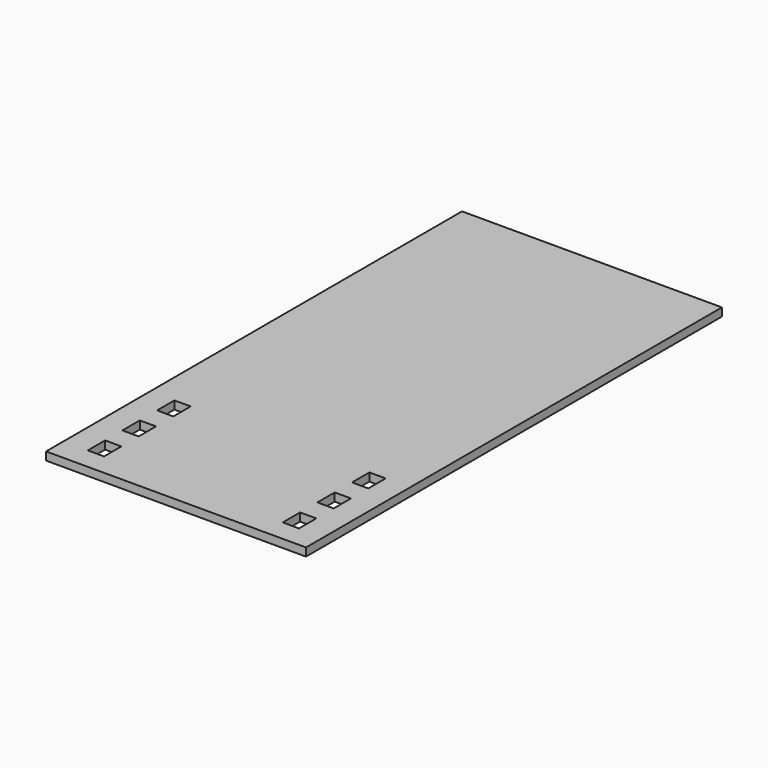
from build123d import *

# Parameters (mm, degrees)
F0_W     = 609.6
F0_H     = 1219.2
F0_W_2   = 38.1
F0_H_2   = 50.8
F1_DEPTH = 19.05


with BuildPart() as f1:
    # F0 (on Top) → F1 (new body)
    with BuildSketch(Plane.XY):
        with Locations((76.245337, 565.404278)):
            Rectangle(F0_W, F0_H)
        with Locations((-152.354663, 32.004278)):
            Rectangle(F0_W_2, F0_H_2, mode=Mode.SUBTRACT)
        with Locations((-152.354663, 133.604278)):
            Rectangle(F0_W_2, F0_H_2, mode=Mode.SUBTRACT)
        with Locations((-152.354663, 235.204278)):
            Rectangle(F0_W_2, F0_H_2, mode=Mode.SUBTRACT)
        with Locations((304.845337, 32.004278)):
            Rectangle(F0_W_2, F0_H_2, mode=Mode.SUBTRACT)
        with Locations((304.845337, 133.604278)):
            Rectangle(F0_W_2, F0_H_2, mode=Mode.SUBTRACT)
        with Locations((304.845337, 235.204278)):
            Rectangle(F0_W_2, F0_H_2, mode=Mode.SUBTRACT)
    extrude(amount=F1_DEPTH)


solid = f1.part
